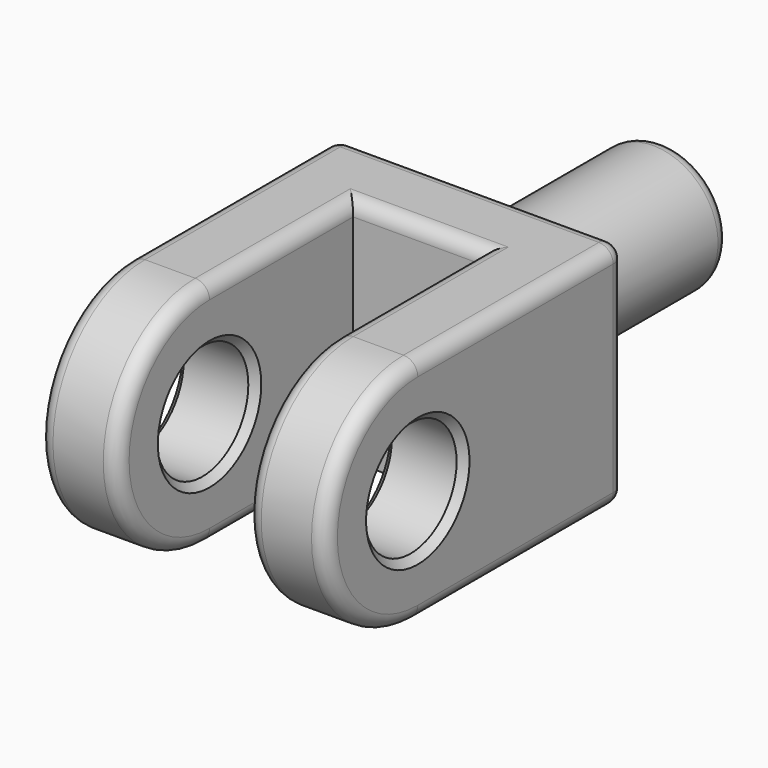
from build123d import *

# Parameters (mm, degrees)
F0_W     = 18
F0_H     = 32
F1_DEPTH = 11
F2_R     = 8
F3_DEPTH = 11
F5_R     = 9
F6_DEPTH = 32
F7_SIZE  = 1
F8_R     = 2


with BuildPart() as f1:
    # F0 (on Front) → F1 (new body)
    with BuildSketch(Plane.XZ):
        Rectangle(F0_W, F0_H)
    extrude(amount=F1_DEPTH)

    # F2 (on face) → F3 (join)
    with BuildSketch(Plane.YZ.offset(9)):
        with BuildLine():
            Line((-36, -16), (0, -16))
            Line((0, -16), (0, 16))
            Line((0, 16), (-36, 16))
            ThreePointArc((-36, 16), (-52, 0), (-36, -16))
        make_face()
        with Locations((-36, 0)):
            Circle(F2_R, mode=Mode.SUBTRACT)
    extrude(amount=F3_DEPTH)

    # F4: F1 across plane


with BuildPart() as f1_1:
    add(f1.part)
    add(f1.part.mirror(Plane.YZ))

    # F5 (on face) → F6 (join)
    with BuildSketch(Plane(origin=(0, 0, 0), x_dir=(-1, 0, 0), z_dir=(0, 1, 0))):
        Circle(F5_R)
    extrude(amount=F6_DEPTH)

    # F7
    f7_edges = [f1_1.edges().sort_by_distance(p)[0] for p in [
        (9, -44, 0),
        (20, -44, 0),
        (-9, -44, 0),
        (-20, -44, 0),
    ]]
    chamfer(f7_edges, length=F7_SIZE)

    # F8
    f8_edges = [f1_1.edges().sort_by_distance(p)[0] for p in [
        (0, -11, 16),
        (-9, -23.5, 16),
        (-14.5, -36, 16),
        (-20, -18, 16),
        (0, 0, 16),
        (20, -18, 16),
        (14.5, -36, 16),
        (9, -23.5, 16),
        (20, 0, 0),
        (0, 0, -16),
        (-20, 0, 0),
        (9, 32, 0),
    ]]
    fillet(f8_edges, radius=F8_R)


solid = f1_1.part
